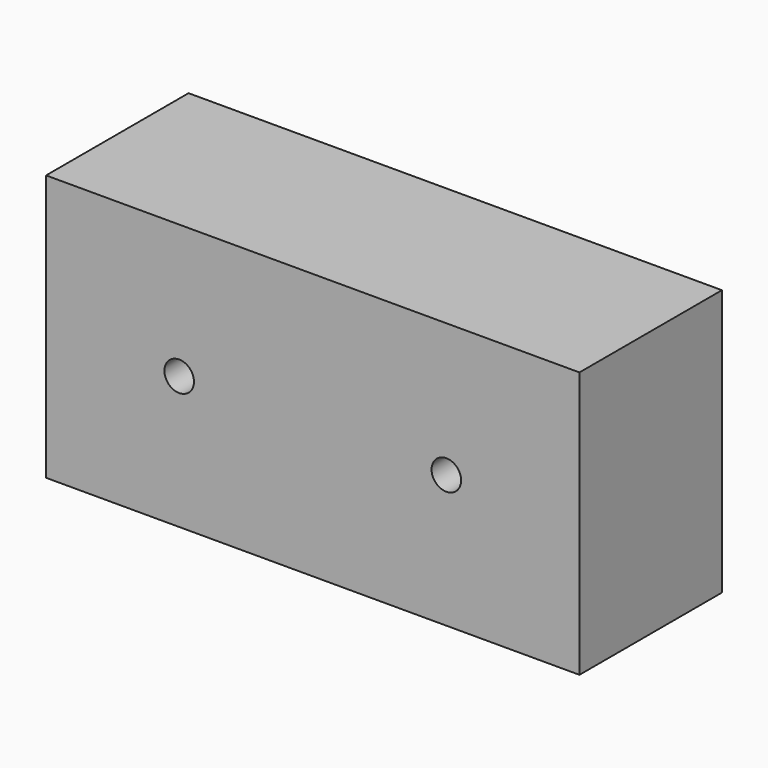
from build123d import *

# Parameters (mm, degrees)
F0_W     = 152.146
F0_H     = 75.946
F1_DEPTH = 50.8
F3_D     = 8.4328


with BuildPart() as f1:
    # F0 (on Front) → F1 (new body)
    with BuildSketch(Plane.XZ):
        with Locations((-7.7946271856, -2.6034978698)):
            Rectangle(F0_W, F0_H)
    extrude(amount=F1_DEPTH)

    # F3 (through all)
    with Locations(Plane.XZ.offset(50.8)):
        with Locations((-45.8946271856, -2.7304978698), (30.3053728144, -2.7304978698)):
            Hole(F3_D / 2)


solid = f1.part
